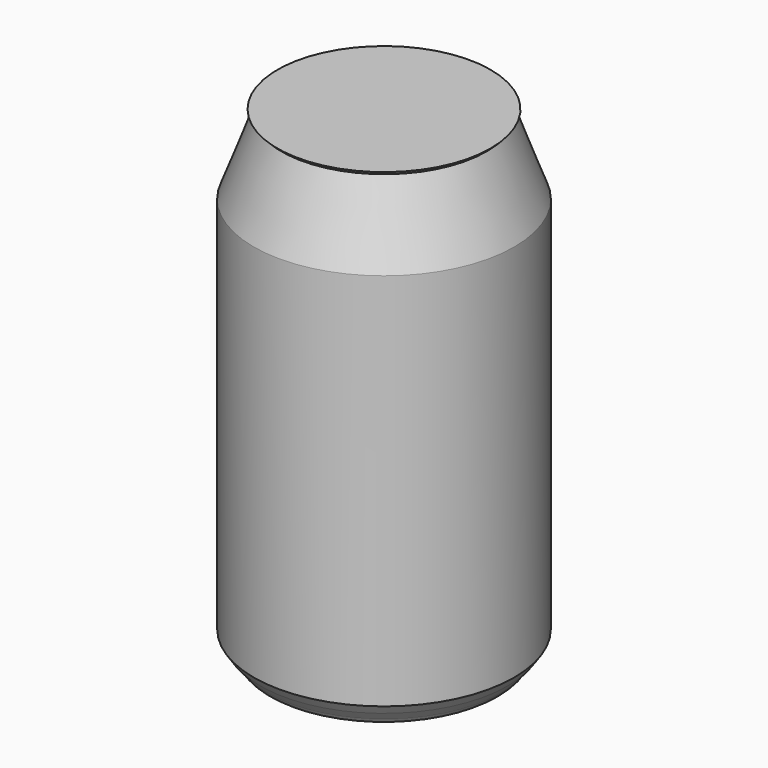
from build123d import *


with BuildPart() as f1:
    # F0 (on Front) → F1 (revolve)
    with BuildSketch(Plane.XZ):
        with BuildLine():
            Line((31.3732725236, -50.7848635919), (33, -48.3865567473))
            Line((33, -48.3865567473), (33, 47.6388056352))
            Line((33, 47.6388056352), (26, 66.6388056352))
            Line((26, 66.6388056352), (27, 67.6388056352))
            Line((27, 67.6388056352), (0, 67.6388056352))
            Line((0, 67.6388056352), (0, 67.1388056352))
            Line((0, 67.1388056352), (25.2829353492, 67.1388056352))
            Line((25.2829353492, 67.1388056352), (32.5125231688, 47.5156386963))
            Line((32.5125231688, 47.5156386963), (32.5125231688, -48.275352705))
            Line((32.5125231688, -48.275352705), (30.8483602147, -50.6294441303))
            Line((30.8483602147, -50.6294441303), (28.6304195036, -53.2243536056))
            Line((28.6304195036, -53.2243536056), (26.1491169821, -53.2243536056))
            Line((26.1491169821, -53.2243536056), (24.5580963685, -51.219364533))
            Line((24.5580963685, -51.219364533), (11.2936210732, -47.8611943648))
            Line((11.2936210732, -47.8611943648), (0, -47.8611943648))
            Line((0, -47.8611943648), (0, -48.3611943648))
            add(Edge.make_bspline(
                [(0, -48.3611943648), (1.2724647789, -48.275352705), (12.304702125, -46.9482202269), (20.1329840553, -51.219364533), (24.1664290581, -51.5301646585)],
                knots=[0, 0, 0, 0, 0.4741217804, 1, 1, 1, 1], degree=3))
            Line((24.1664290581, -51.5301646585), (25.9098132764, -53.7271608992))
            ThreePointArc((25.9098132764, -53.7271608992), (27.7441009558, -54.4659747414), (29.3167611107, -53.2671431347))
            Line((29.3167611107, -53.2671431347), (29.3813802901, -53.1153046197))
            Line((29.3813802901, -53.1153046197), (31.3732725236, -50.7848635919))
        make_face()
    revolve(axis=Axis((0, 0, -12.467063805), (0, 0, -1)))


solid = f1.part
